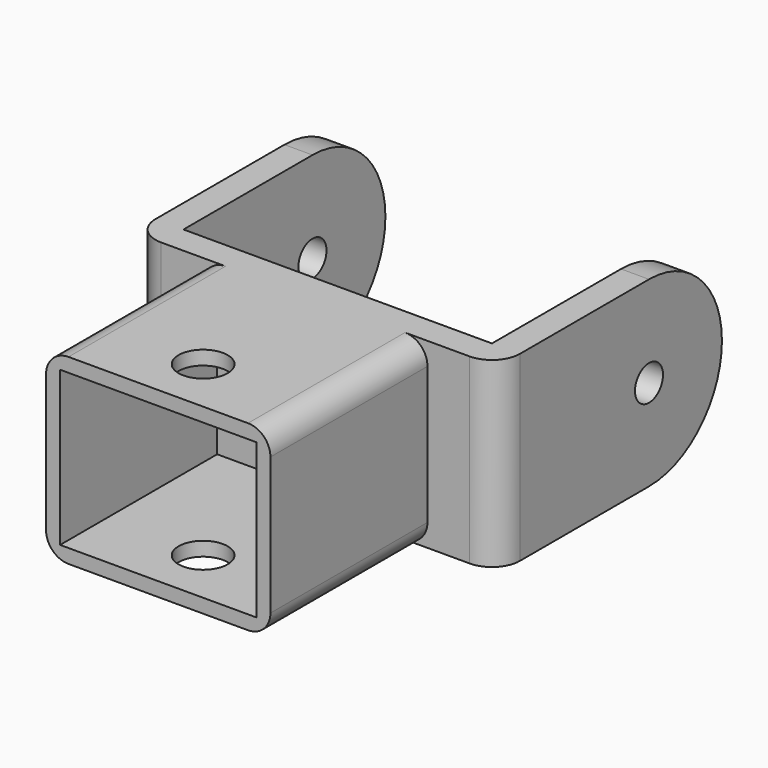
from build123d import *

# Parameters (mm, degrees)
F0_W     = 50.8
F0_H     = 41.275
F0_W_2   = 44.45
F0_H_2   = 34.925
F1_DEPTH = 44.45
F3_DEPTH = 20.6375
F5_DEPTH = 82.551
F7_D     = 7.9375
F8_R     = 6.35
F9_R     = 5.08
F11_D    = 11.1125


with BuildPart() as f1:
    # F0 (on Front) → F1 (new body)
    with BuildSketch(Plane.XZ):
        Rectangle(F0_W, F0_H)
        Rectangle(F0_W_2, F0_H_2, mode=Mode.SUBTRACT)
    extrude(amount=-F1_DEPTH)

    # F2 (on Top) → F3 (join, symmetric)
    with BuildSketch(Plane.XY):
        Polygon((41.275, 44.45), (41.275, 107.95), (34.925, 107.95), (34.925, 101.6), (34.925, 50.8), (-34.925, 50.8), (-34.925, 101.6), (-34.925, 107.95), (-41.275, 107.95), (-41.275, 44.45), align=None)
    extrude(amount=F3_DEPTH, both=True)

    # F4 (on face) → F5 (cut, through all)
    with BuildSketch(Plane(origin=(-41.275, 0, 0), x_dir=(0, -1, 0), z_dir=(-1, 0, 0))):
        with BuildLine():
            Line((-107.95, -20.6375), (-87.3125, -20.6375))
            ThreePointArc((-87.3125, -20.6375), (-101.9054161967, -14.5929161967), (-107.95, 0))
            Line((-107.95, 0), (-107.95, -20.6375))
        make_face()
        with BuildLine():
            ThreePointArc((-107.95, 0), (-101.9054161967, 14.5929161967), (-87.3125, 20.6375))
            Line((-87.3125, 20.6375), (-107.95, 20.6375))
            Line((-107.95, 20.6375), (-107.95, 0))
        make_face()
    extrude(amount=-F5_DEPTH, mode=Mode.SUBTRACT)

    # F7 (through all)
    with Locations(Plane(origin=(-41.275, 0, 0), x_dir=(0, -1, 0), z_dir=(-1, 0, 0))):
        with Locations((-87.3125, 0)):
            Hole(F7_D / 2)

    # F8
    f8_edges = [f1.edges().sort_by_distance(p)[0] for p in [
        (-41.275, 44.45, 0),
        (41.275, 44.45, 0),
    ]]
    fillet(f8_edges, radius=F8_R)

    # F9
    f9_edges = [f1.edges().sort_by_distance(p)[0] for p in [
        (-25.4, 22.225, 20.6375),
        (25.4, 22.225, 20.6375),
        (25.4, 22.225, -20.6375),
        (-25.4, 22.225, -20.6375),
    ]]
    fillet(f9_edges, radius=F9_R)

    # F11 (through all)
    with Locations(Plane(origin=(0, 0, -20.6375), x_dir=(1, 0, 0), z_dir=(0, 0, -1))):
        with Locations((0, -12.7)):
            Hole(F11_D / 2)


solid = f1.part
